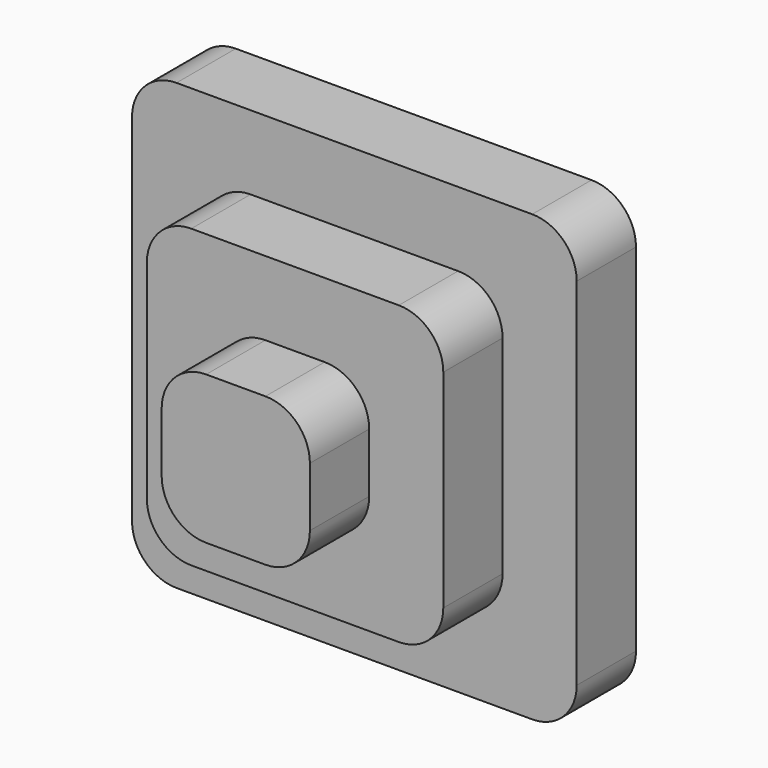
from build123d import *

# Parameters (mm, degrees)
F1_DEPTH = 12.7
F2_DEPTH = 25.4
F3_DEPTH = 38.1


with BuildPart() as f1:
    # F0 (on Front) → F1 (new body)
    with BuildSketch(Plane.XZ):
        with BuildLine():
            Line((-30.48, -38.1), (30.48, -38.1))
            ThreePointArc((30.48, -38.1), (35.868154, -35.868154), (38.1, -30.48))
            Line((38.1, -30.48), (38.1, 30.48))
            ThreePointArc((38.1, 30.48), (35.868154, 35.868154), (30.48, 38.1))
            Line((30.48, 38.1), (-30.48, 38.1))
            ThreePointArc((-30.48, 38.1), (-35.868154, 35.868154), (-38.1, 30.48))
            Line((-38.1, 30.48), (-38.1, -30.48))
            ThreePointArc((-38.1, -30.48), (-35.868154, -35.868154), (-30.48, -38.1))
        make_face()
        with BuildLine():
            ThreePointArc((25.4, -17.78), (23.168154, -23.168154), (17.78, -25.4))
            Line((17.78, -25.4), (-17.78, -25.4))
            ThreePointArc((-17.78, -25.4), (-23.168154, -23.168154), (-25.4, -17.78))
            Line((-25.4, -17.78), (-25.4, 17.78))
            ThreePointArc((-25.4, 17.78), (-23.168154, 23.168154), (-17.78, 25.4))
            Line((-17.78, 25.4), (17.78, 25.4))
            ThreePointArc((17.78, 25.4), (23.168154, 23.168154), (25.4, 17.78))
            Line((25.4, 17.78), (25.4, -17.78))
        make_face(mode=Mode.SUBTRACT)
    extrude(amount=F1_DEPTH)


with BuildPart() as f2:
    # F0 (on Front) → F2 (new body)
    with BuildSketch(Plane.XZ):
        with BuildLine():
            Line((-17.78, -25.4), (17.78, -25.4))
            ThreePointArc((17.78, -25.4), (23.168154, -23.168154), (25.4, -17.78))
            Line((25.4, -17.78), (25.4, 17.78))
            ThreePointArc((25.4, 17.78), (23.168154, 23.168154), (17.78, 25.4))
            Line((17.78, 25.4), (-17.78, 25.4))
            ThreePointArc((-17.78, 25.4), (-23.168154, 23.168154), (-25.4, 17.78))
            Line((-25.4, 17.78), (-25.4, -17.78))
            ThreePointArc((-25.4, -17.78), (-23.168154, -23.168154), (-17.78, -25.4))
        make_face()
        with BuildLine():
            ThreePointArc((12.7, -5.08), (10.468154, -10.468154), (5.08, -12.7))
            Line((5.08, -12.7), (-5.08, -12.7))
            ThreePointArc((-5.08, -12.7), (-10.468154, -10.468154), (-12.7, -5.08))
            Line((-12.7, -5.08), (-12.7, 5.08))
            ThreePointArc((-12.7, 5.08), (-10.468154, 10.468154), (-5.08, 12.7))
            Line((-5.08, 12.7), (5.08, 12.7))
            ThreePointArc((5.08, 12.7), (10.468154, 10.468154), (12.7, 5.08))
            Line((12.7, 5.08), (12.7, -5.08))
        make_face(mode=Mode.SUBTRACT)
    extrude(amount=F2_DEPTH)


with BuildPart() as f3:
    # F0 (on Front) → F3 (new body)
    with BuildSketch(Plane.XZ):
        with BuildLine():
            Line((-5.08, -12.7), (5.08, -12.7))
            ThreePointArc((5.08, -12.7), (10.468154, -10.468154), (12.7, -5.08))
            Line((12.7, -5.08), (12.7, 5.08))
            ThreePointArc((12.7, 5.08), (10.468154, 10.468154), (5.08, 12.7))
            Line((5.08, 12.7), (-5.08, 12.7))
            ThreePointArc((-5.08, 12.7), (-10.468154, 10.468154), (-12.7, 5.08))
            Line((-12.7, 5.08), (-12.7, -5.08))
            ThreePointArc((-12.7, -5.08), (-10.468154, -10.468154), (-5.08, -12.7))
        make_face()
    extrude(amount=F3_DEPTH)


solid = Compound([f1.part, f2.part, f3.part])
